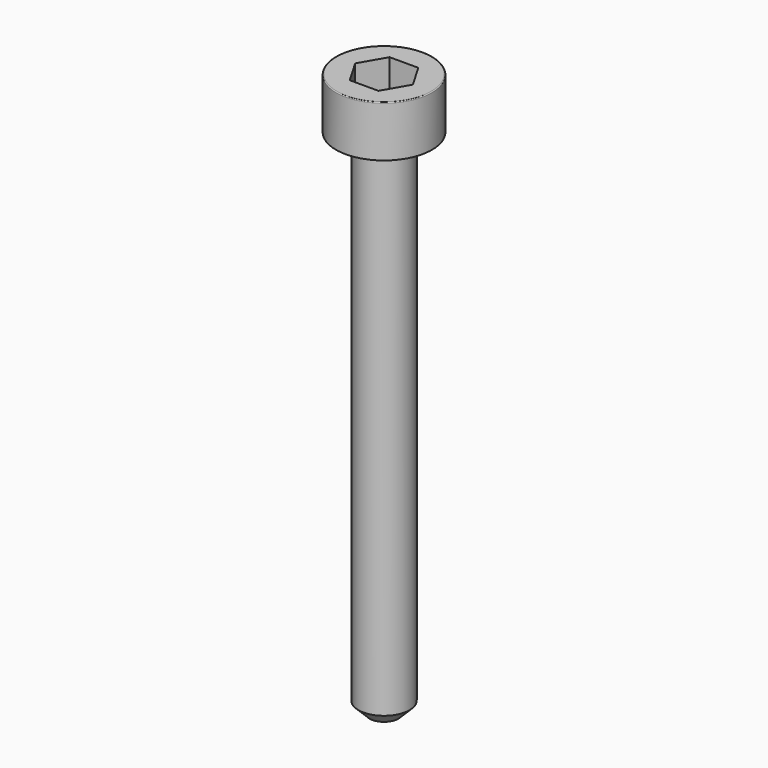
from build123d import *

# Parameters (mm, degrees)
POCKET_DEPTH = 1.56


with BuildPart() as part:
    # Sketch → Revolve (revolve)
    with BuildSketch(Plane.YZ):
        with BuildLine():
            Line((0.799, 0), (1.5, 0))
            Line((1.5, 0), (1.5, 1.57229))
            ThreePointArc((1.5, 1.57229), (1.491884, 1.591884), (1.47229, 1.6))
            Line((1.47229, 1.6), (0, 1.6))
            Line((0, -16), (0, 1.6))
            Line((0.45, -16), (0, -16))
            Line((0.8, -15.65), (0.45, -16))
            Line((0.8, -0.2), (0.8, -15.65))
            Line((0.799, 0), (0.8, -0.2))
        make_face()
    revolve(axis=Axis((0, 0, 0), (0, 0, 1)))

    # Sketch001 → Pocket (cut)
    with BuildSketch(Plane.XY.offset(1.6)):
        Polygon((0.900666, 0), (0.450333, 0.78), (-0.450333, 0.78), (-0.900666, 0), (-0.450333, -0.78), (0.450333, -0.78), align=None)
    extrude(amount=-POCKET_DEPTH, mode=Mode.SUBTRACT)


solid = part.part
